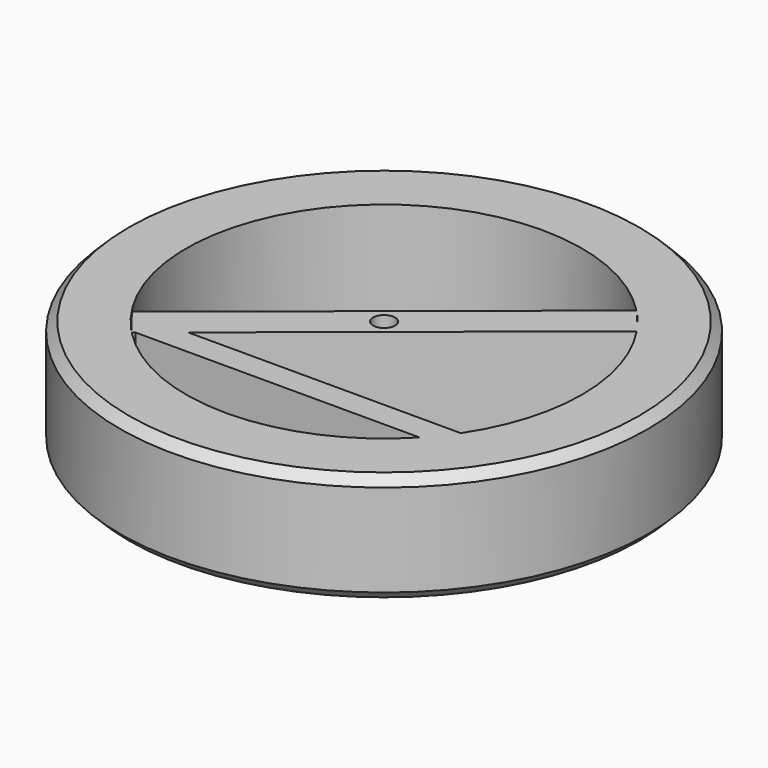
from build123d import *

# Parameters (mm, degrees)
F0_R     = 60
F0_R_2   = 45
F1_DEPTH = 12.5
F2_SIZE  = 2
F3_R     = 2.5
F4_DEPTH = 12.5
F6_DEPTH = 12.5


with BuildPart() as f1:
    # F0 (on Top) → F1 (new body, symmetric)
    with BuildSketch(Plane.XY):
        Circle(F0_R)
        Circle(F0_R_2, mode=Mode.SUBTRACT)
    extrude(amount=F1_DEPTH, both=True)

    # F2
    f2_edges = [f1.edges().sort_by_distance(p)[0] for p in [
        (-60, 0, -12.5),
        (-60, 0, 12.5),
    ]]
    chamfer(f2_edges, length=F2_SIZE)

    # F3 (on Top) → F4 (join, symmetric)
    with BuildSketch(Plane.XY):
        Polygon((37.510756, 25.18704), (32.372119, 31.320056), (-37.304859, -25.020552), (-32.410452, -31.351052), align=None)
        Circle(F3_R, mode=Mode.SUBTRACT)
    extrude(amount=F4_DEPTH, both=True)

    # F5 (on face) → F6 (join, symmetric)
    with BuildSketch(Plane.XY):
        Polygon((38.118351, -24.993353), (-24.714097, -24.993353), (-31.974737, -30.857714), (32.812502, -30.857714), align=None)
    extrude(amount=F6_DEPTH, both=True)


solid = f1.part
